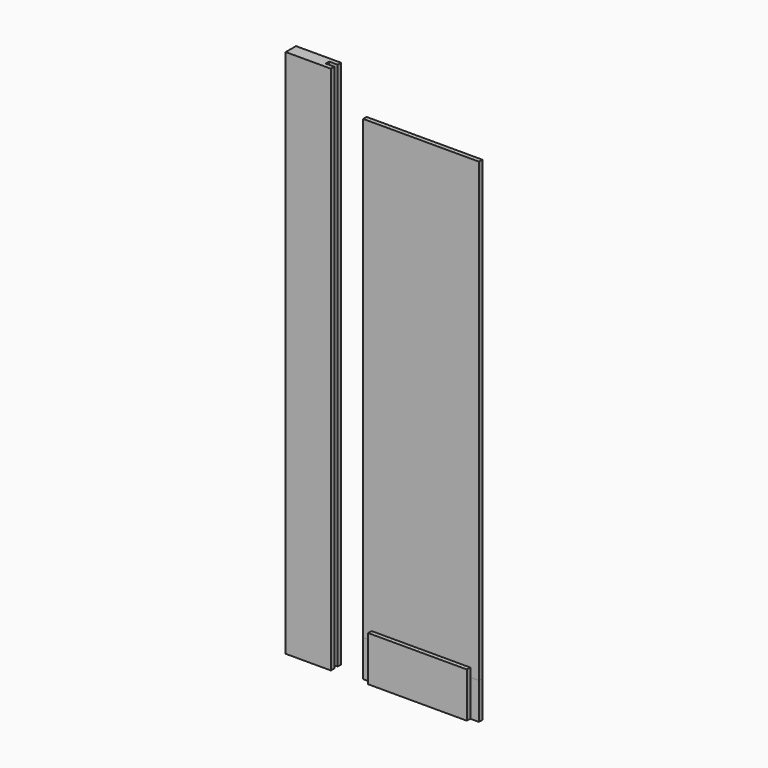
from build123d import *

# Parameters (mm, degrees)
F0_W      = 66.675
F0_H      = 782.6375
F1_DEPTH  = 19.05
F2_W      = 6.35
F2_H      = 782.6375
F3_DEPTH  = 12.7
F4_W      = 145.653125
F4_H      = 66.675
F5_DEPTH  = 19.05
F6_W      = 6.35
F6_H      = 66.675
F7_DEPTH  = 12.7
F8_W      = 6.35
F8_H      = 66.675
F9_DEPTH  = 12.7
F10_W     = 171.053125
F10_H     = 6.35
F11_DEPTH = 12.7
F12_W     = 171.053125
F12_H     = 674.6875
F13_DEPTH = 6.35


with BuildPart() as f1:
    # F0 (on Front) → F1 (new body)
    with BuildSketch(Plane.XZ):
        with Locations((33.3375, 391.31875)):
            Rectangle(F0_W, F0_H)
    extrude(amount=F1_DEPTH)

    # F2 (on face) → F3 (cut)
    with BuildSketch(Plane.YZ.offset(66.675)):
        with Locations((-9.525, 391.31875)):
            Rectangle(F2_W, F2_H)
    extrude(amount=-F3_DEPTH, mode=Mode.SUBTRACT)


with BuildPart() as f5:
    # F4 (on Front) → F5 (new body)
    with BuildSketch(Plane.XZ):
        with Locations((194.7409492493, 33.3375)):
            Rectangle(F4_W, F4_H)
    extrude(amount=F5_DEPTH)

    # F6 (on face) → F7 (join)
    with BuildSketch(Plane(origin=(121.9143867493, 0, 0), x_dir=(0, -1, 0), z_dir=(-1, 0, 0))):
        with Locations((9.525, 33.3375)):
            Rectangle(F6_W, F6_H)
    extrude(amount=F7_DEPTH)

    # F8 (on face) → F9 (join)
    with BuildSketch(Plane.YZ.offset(267.5675117493)):
        with Locations((-9.525, 33.3375)):
            Rectangle(F8_W, F8_H)
    extrude(amount=F9_DEPTH)

    # F10 (on face) → F11 (cut)
    with BuildSketch(Plane.XY.offset(66.675)):
        with Locations((194.7409492493, -9.525)):
            Rectangle(F10_W, F10_H)
    extrude(amount=-F11_DEPTH, mode=Mode.SUBTRACT)


with BuildPart() as f13:
    # F12 (on face) → F13 (new body, through all)
    with BuildSketch(Plane.XZ.offset(12.7)):
        with Locations((194.7409492493, 391.31875)):
            Rectangle(F12_W, F12_H)
    extrude(amount=-F13_DEPTH)


solid = Compound([f1.part, f5.part, f13.part])
